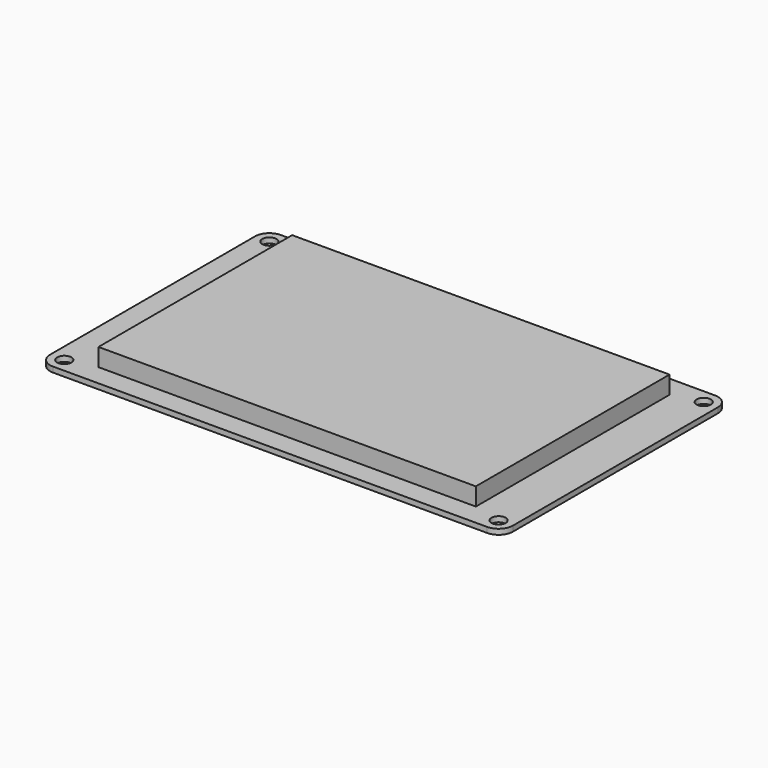
from build123d import *

# Parameters (mm, degrees)
F0_R     = 2
F1_DEPTH = 1.5
F2_W     = 106
F2_H     = 68
F3_DEPTH = 5


with BuildPart() as f1:
    # F0 (on Top) → F1 (new body)
    with BuildSketch(Plane.XY):
        with BuildLine():
            ThreePointArc((0, 4), (1.171573, 1.171573), (4, 0))
            Line((4, 0), (126, 0))
            ThreePointArc((126, 0), (128.828427, 1.171573), (130, 4))
            Line((130, 4), (130, 76))
            ThreePointArc((130, 76), (128.828427, 78.828427), (126, 80))
            Line((126, 80), (4, 80))
            ThreePointArc((4, 80), (1.171573, 78.828427), (0, 76))
            Line((0, 76), (0, 4))
        make_face()
        with Locations((4, 4)):
            Circle(F0_R, mode=Mode.SUBTRACT)
        with Locations((126, 4)):
            Circle(F0_R, mode=Mode.SUBTRACT)
        with Locations((4, 76)):
            Circle(F0_R, mode=Mode.SUBTRACT)
        with Locations((126, 76)):
            Circle(F0_R, mode=Mode.SUBTRACT)
    extrude(amount=F1_DEPTH)


with BuildPart() as f3:
    # F2 (on face) → F3 (new body)
    with BuildSketch(Plane.XY.offset(1.5)):
        with Locations((65, 40)):
            Rectangle(F2_W, F2_H)
    extrude(amount=F3_DEPTH)


solid = Compound([f1.part, f3.part])
